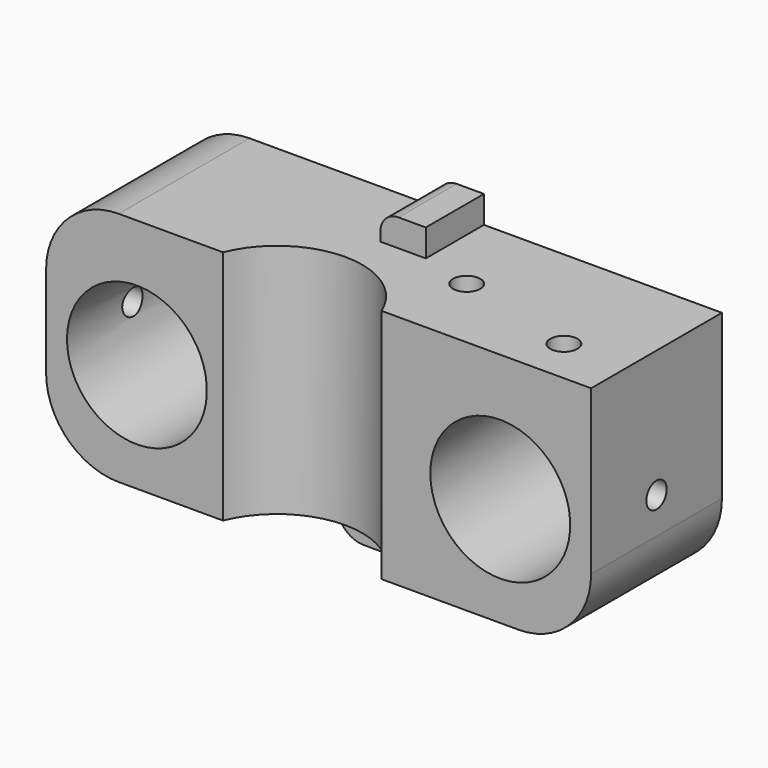
from build123d import *

# Parameters (mm, degrees)
BOX001_W        = 60
BOX001_H        = 18
BOX001_DEPTH    = 26
SKETCH009_R     = 7.7
POCKET007_DEPTH = 21
SKETCH010_R     = 1.4
POCKET008_DEPTH = 5
SKETCH011_R     = 1.5
POCKET009_DEPTH = 5
SKETCH012_R     = 1.4
POCKET010_DEPTH = 5
SKETCH019_W     = 13
SKETCH019_H     = 8
PAD002_DEPTH    = 4
SKETCH020_W     = 5
SKETCH020_H     = 8
PAD003_DEPTH    = 3
SKETCH016_R     = 9.4
POCKET017_DEPTH = 30.001
SKETCH014_R     = 1.45
POCKET018_DEPTH = 6
FILLET003_R     = 2
FILLET004_R     = 3
FILLET005_R     = 8


with BuildPart() as part:
    # Box001 → Box001 (new body)
    with BuildSketch(Plane.XY):
        with Locations((30, 9)):
            Rectangle(BOX001_W, BOX001_H)
    extrude(amount=BOX001_DEPTH)

    # Sketch009 → Pocket007 (cut)
    with BuildSketch(Plane(origin=(0, 18, 0), x_dir=(-1, 0, 0), z_dir=(0, 1, 0))):
        with Locations((-50, 12)):
            Circle(SKETCH009_R)
        with Locations((-10, 12)):
            Circle(SKETCH009_R)
    extrude(amount=-POCKET007_DEPTH, mode=Mode.SUBTRACT)

    # Sketch010 → Pocket008 (cut)
    with BuildSketch(Plane.YZ.offset(60)):
        with Locations((9, 12)):
            Circle(SKETCH010_R)
    extrude(amount=-POCKET008_DEPTH, mode=Mode.SUBTRACT)

    # Sketch011 → Pocket009 (cut)
    with BuildSketch(Plane.XY.offset(26)):
        with Locations((39.5, 8.5)):
            Circle(SKETCH011_R)
        with Locations((53, 5)):
            Circle(SKETCH011_R)
    extrude(amount=-POCKET009_DEPTH, mode=Mode.SUBTRACT)

    # Sketch012 → Pocket010 (cut)
    with BuildSketch(Plane(origin=(0, 0, 0), x_dir=(0, -1, 0), z_dir=(-1, 0, 0))):
        with Locations((-9, 12)):
            Circle(SKETCH012_R)
    extrude(amount=-POCKET010_DEPTH, mode=Mode.SUBTRACT)

    # Sketch019 → Pad002 (new body)
    with BuildSketch(Plane(origin=(0, 0, 0), x_dir=(1, 0, 0), z_dir=(0, 0, -1))):
        with Locations((30.5, -14)):
            Rectangle(SKETCH019_W, SKETCH019_H)
    extrude(amount=PAD002_DEPTH)

    # Sketch020 → Pad003 (new body)
    with BuildSketch(Plane.XY.offset(26)):
        with Locations((31.3, 14)):
            Rectangle(SKETCH020_W, SKETCH020_H)
    extrude(amount=PAD003_DEPTH)

    # Sketch016 → Pocket017 (cut, through all)
    with BuildSketch(Plane.XY.offset(26)):
        with Locations((28.2, -3.5)):
            Circle(SKETCH016_R)
    extrude(amount=-POCKET017_DEPTH, mode=Mode.SUBTRACT)

    # Sketch014 → Pocket018 (cut)
    with BuildSketch(Plane(origin=(0, 18, 0), x_dir=(-1, 0, 0), z_dir=(0, 1, 0))):
        with Locations((-31.8, 13.1)):
            Circle(SKETCH014_R)
        with Locations((-31.8, 1)):
            Circle(SKETCH014_R)
        with Locations((-31.912905, 25.199473)):
            Circle(SKETCH014_R)
    extrude(amount=-POCKET018_DEPTH, mode=Mode.SUBTRACT)

    # Fillet003
    fillet003_edges = [part.edges().sort_by_distance(p)[0] for p in [
        (28.8, 14, 29),
    ]]
    fillet(fillet003_edges, radius=FILLET003_R)

    # Fillet004
    fillet004_edges = [part.edges().sort_by_distance(p)[0] for p in [
        (24, 14, -4),
        (37, 14, -4),
    ]]
    fillet(fillet004_edges, radius=FILLET004_R)

    # Fillet005
    fillet005_edges = [part.edges().sort_by_distance(p)[0] for p in [
        (60, 9, 0),
        (0, 9, 26),
        (0, 9, 0),
    ]]
    fillet(fillet005_edges, radius=FILLET005_R)


solid = part.part
